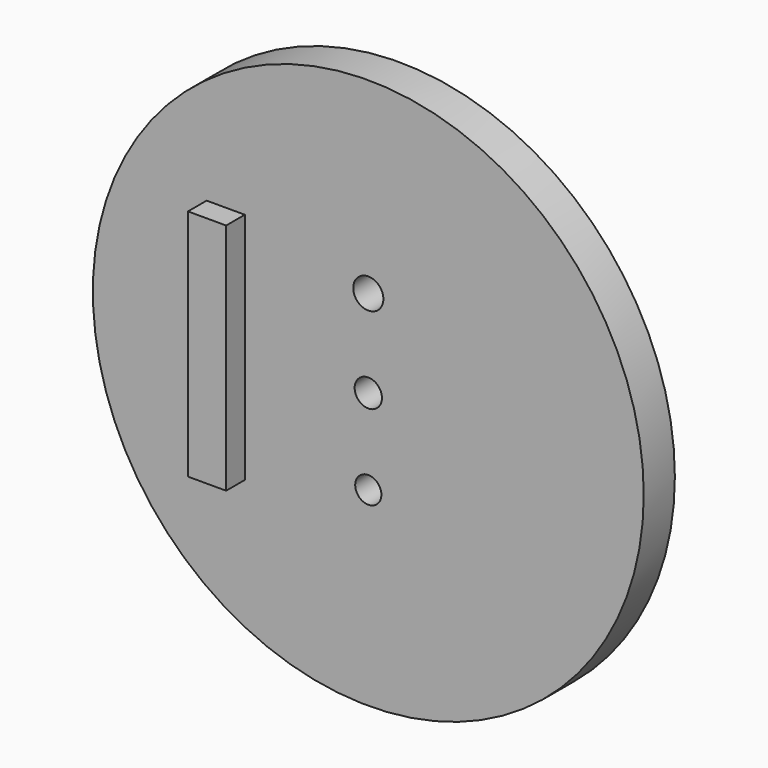
from build123d import *

# Parameters (mm, degrees)
F0_R     = 35.391542
F1_DEPTH = 5
F3_R     = 1.682004
F4_DEPTH = 25
F5_R     = 1.935057
F6_DEPTH = 25
F7_R     = 1.754642
F8_DEPTH = 25
F2_W     = 4.903845
F2_H     = 30.000002
F9_DEPTH = 3


with BuildPart() as f1:
    # F0 (on Front) → F1 (new body)
    with BuildSketch(Plane.XZ):
        Circle(F0_R)
    extrude(amount=F1_DEPTH)

    # F3 (on face) → F4 (cut)
    with BuildSketch(Plane.XZ.offset(5)):
        with Locations((0, -10.961539)):
            Circle(F3_R)
    extrude(amount=-F4_DEPTH, mode=Mode.SUBTRACT)

    # F5 (on face) → F6 (cut)
    with BuildSketch(Plane.XZ.offset(5)):
        with Locations((0, 11.250001)):
            Circle(F5_R)
    extrude(amount=-F6_DEPTH, mode=Mode.SUBTRACT)

    # F7 (on face) → F8 (cut)
    with BuildSketch(Plane.XZ.offset(5)):
        Circle(F7_R)
    extrude(amount=-F8_DEPTH, mode=Mode.SUBTRACT)

    # F2 (on face) → F9 (join)
    with BuildSketch(Plane.XZ.offset(5)):
        with Locations((-18.317308, 0)):
            Rectangle(F2_W, F2_H)
    extrude(amount=F9_DEPTH)


solid = f1.part
